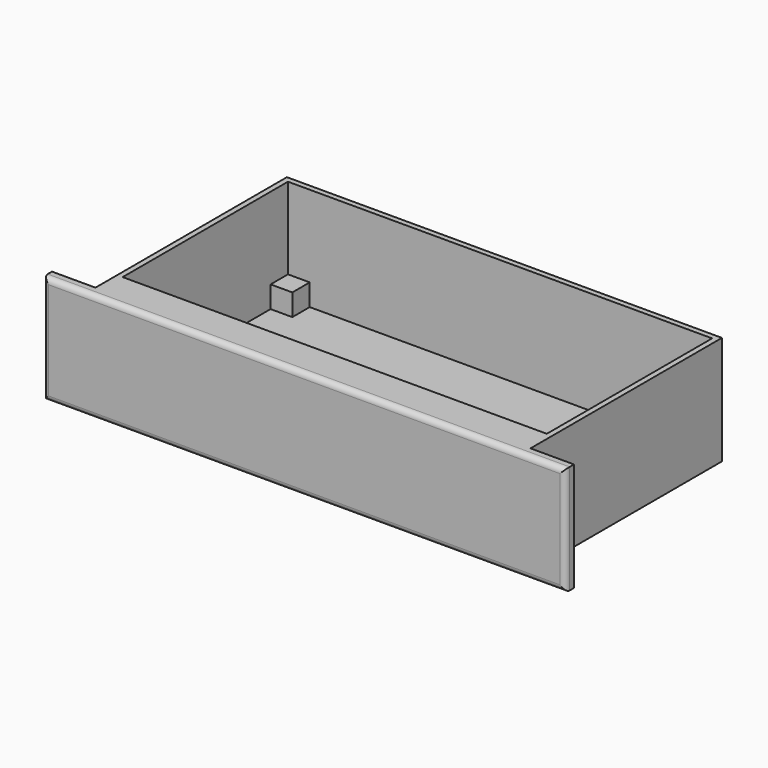
from build123d import *

# Parameters (mm, degrees)
F0_W     = 6.35
F0_H     = 6.35
F0_W_2   = 495.3
F0_H_2   = 241.3
F1_DEPTH = 127
F2_DEPTH = 6.35
F3_W     = 25.4
F3_H     = 25.4
F4_DEPTH = 25.4
F5_W     = 508
F5_H     = 127
F6_DEPTH = 25.4
F7_W     = 609.6
F7_H     = 127
F8_DEPTH = 12.7
F9_R     = 6.35


with BuildPart() as f1:
    # F0 (on Top) → F1 (new body)
    with BuildSketch(Plane.XY):
        with Locations((-250.825, 123.825)):
            Rectangle(F0_W, F0_H)
        with Locations((-250.825, -123.825)):
            Rectangle(F0_W, F0_H)
        with Locations((250.825, -123.825)):
            Rectangle(F0_W, F0_H)
        with Locations((250.825, 123.825)):
            Rectangle(F0_W, F0_H)
        with Locations((0, 123.825)):
            Rectangle(F0_W_2, F0_H)
        with Locations((0, -123.825)):
            Rectangle(F0_W_2, F0_H)
        with Locations((250.825, 0)):
            Rectangle(F0_W, F0_H_2)
        with Locations((-250.825, 0)):
            Rectangle(F0_W, F0_H_2)
    extrude(amount=F1_DEPTH)

    # F0 (on Top) → F2 (join)
    with BuildSketch(Plane.XY):
        Rectangle(F0_W_2, F0_H_2)
    extrude(amount=F2_DEPTH)

    # F3 (on face) → F4 (join)
    with BuildSketch(Plane.XY.offset(6.35)):
        with Locations((-234.95, -107.95)):
            Rectangle(F3_W, F3_H)
        with Locations((-234.95, 107.95)):
            Rectangle(F3_W, F3_H)
        with Locations((234.95, 107.95)):
            Rectangle(F3_W, F3_H)
        with Locations((234.95, -107.95)):
            Rectangle(F3_W, F3_H)
    extrude(amount=F4_DEPTH)

    # F5 (on face) → F6 (join)
    with BuildSketch(Plane.XZ.offset(127)):
        with Locations((0, 63.5)):
            Rectangle(F5_W, F5_H)
    extrude(amount=F6_DEPTH)

    # F7 (on face) → F8 (join)
    with BuildSketch(Plane.XZ.offset(152.4)):
        with Locations((0, 63.5)):
            Rectangle(F7_W, F7_H)
    extrude(amount=F8_DEPTH)

    # F9
    f9_edges = [f1.edges().sort_by_distance(p)[0] for p in [
        (-304.8, -165.1, 63.5),
        (0, -165.1, 0),
        (304.8, -165.1, 63.5),
        (0, -165.1, 127),
    ]]
    fillet(f9_edges, radius=F9_R)


solid = f1.part
